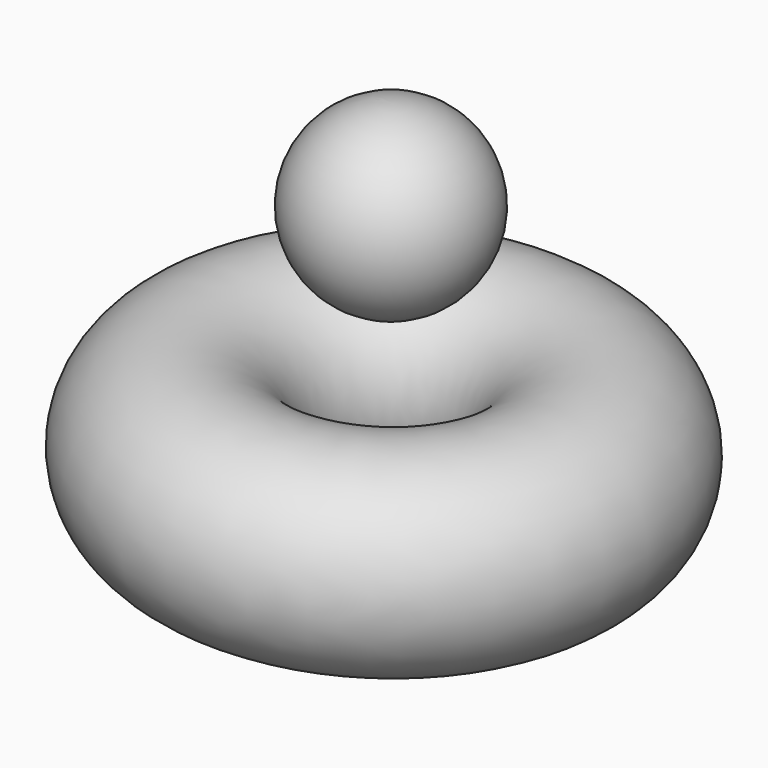
from build123d import *

# Parameters (mm, degrees)
F0_R = 30.2992718332


with BuildPart() as f1:
    # F0 (on Front) → F1 (revolve)
    with BuildSketch(Plane.XZ):
        with BuildLine():
            Line((-32.5669097371, 48.3018782324), (-30.7612987066, 104.2711976216))
            ThreePointArc((-30.7612987066, 104.2711976216), (-59.6487639164, 77.1893434422), (-32.5669097371, 48.3018782324))
        make_face()
    revolve(axis=Axis((-32.979878597, 0, 35.5009008199), (-0.0322439541, 0, -0.9994800285)))


with BuildPart() as f1b:
    # F0 (on Front) → F1, piece 2 (revolve)
    with BuildSketch(Plane.XZ):
        with Locations((17.2686446458, 7.3751551099)):
            Circle(F0_R)
    revolve(axis=Axis((-32.979878597, 0, 35.5009008199), (-0.0322439541, 0, -0.9994800285)))


solid = Compound([f1.part, f1b.part])
